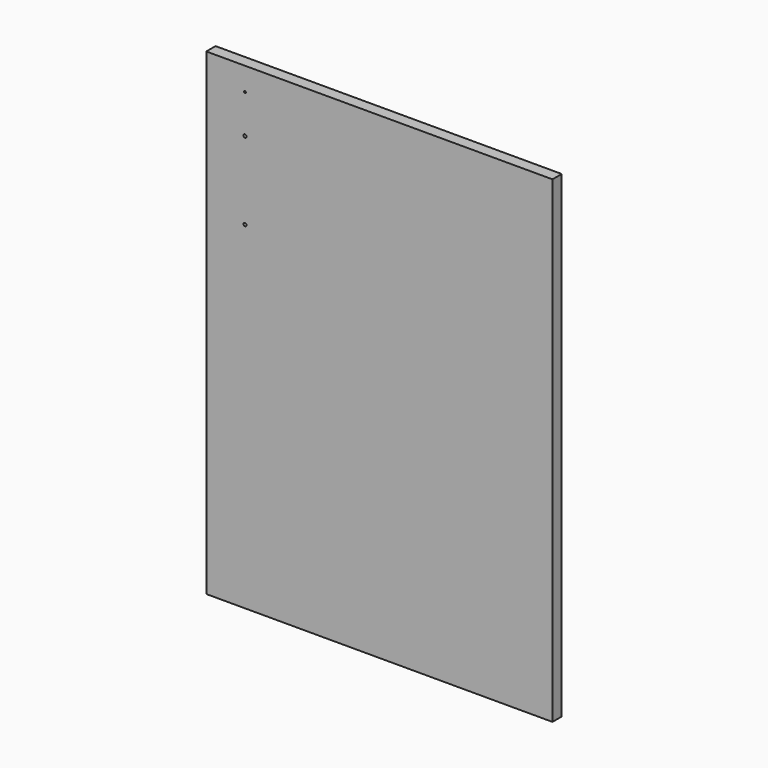
from build123d import *

# Parameters (mm, degrees)
F0_W     = 568.452
F0_H     = 784.352
F1_DEPTH = 19.05
F3_D     = 5.0038
F3_DEPTH = 25.4
F5_D     = 3.175
F5_DEPTH = 25.4


with BuildPart() as f1:
    # F0 (on Front) → F1 (new body)
    with BuildSketch(Plane.XZ):
        Rectangle(F0_W, F0_H)
    extrude(amount=F1_DEPTH)

    # F3
    with Locations(Plane.XZ.offset(19.05)):
        with Locations((-220.726, 290.576), (-220.726, 162.56)):
            Hole(F3_D / 2, depth=F3_DEPTH)

    # F5
    with Locations(Plane.XZ.offset(19.05)):
        with Locations((-220.726, 354.076)):
            Hole(F5_D / 2, depth=F5_DEPTH)


solid = f1.part
